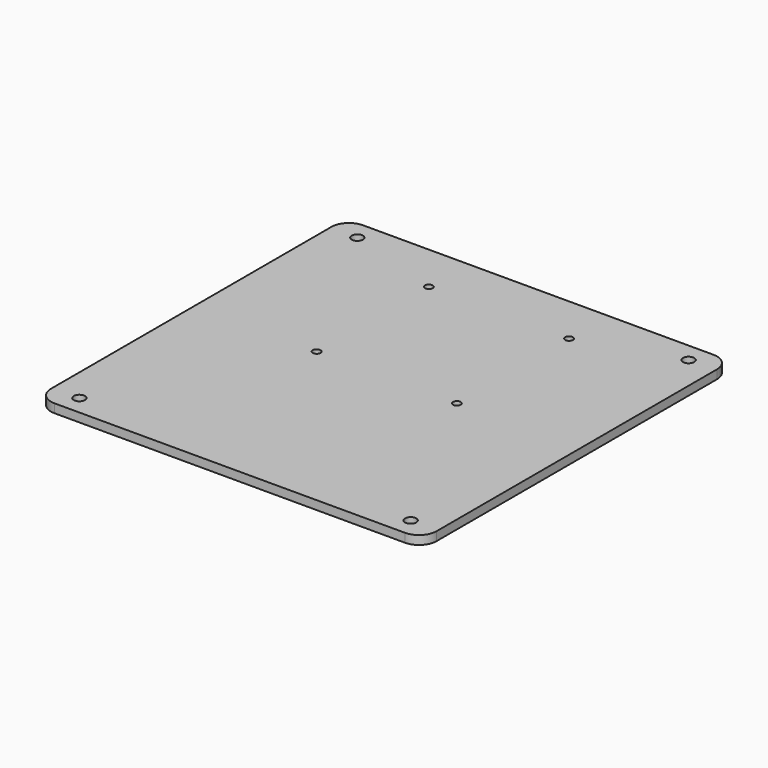
from build123d import *

# Parameters (mm, degrees)
PAD006_DEPTH    = 5
SKETCH040_R     = 3.2
POCKET034_DEPTH = 5
SKETCH041_W     = 163
SKETCH041_H     = 205
PAD007_DEPTH    = 5
SKETCH042_W     = 205
SKETCH042_H     = 176.4
PAD008_DEPTH    = 5
SKETCH043_W     = 149
SKETCH043_H     = 199
POCKET035_DEPTH = 5
SKETCH049_R     = 2.2
POCKET040_DEPTH = 5


with BuildPart() as part:
    # Sketch039 → Pad006 (new body)
    with BuildSketch(Plane.XY):
        with BuildLine():
            Line((-100, 110), (100, 110))
            ThreePointArc((110, 100), (107.071068, 107.071068), (100, 110))
            Line((110, 100), (110, -100))
            ThreePointArc((100, -110), (107.071068, -107.071068), (110, -100))
            Line((100, -110), (-100, -110))
            ThreePointArc((-110, -100), (-107.071068, -107.071068), (-100, -110))
            Line((-110, -100), (-110, 100))
            ThreePointArc((-100, 110), (-107.071068, 107.071068), (-110, 100))
        make_face()
    extrude(amount=PAD006_DEPTH)

    # Sketch040 (on Face10 of Pad006) → Pocket034 (cut)
    with BuildSketch(Plane.XY.offset(5)):
        with Locations((-94.5, 99.1)):
            Circle(SKETCH040_R)
        with Locations((94.5, 99.1)):
            Circle(SKETCH040_R)
        with Locations((94.5, -99.1)):
            Circle(SKETCH040_R)
        with Locations((-94.5, -99.1)):
            Circle(SKETCH040_R)
    extrude(amount=-POCKET034_DEPTH, mode=Mode.SUBTRACT)

    # Sketch041 (on Face4 of Pocket034) → Pad007 (join)
    with BuildSketch(Plane(origin=(0, 0, 0), x_dir=(1, 0, 0), z_dir=(0, 0, -1))):
        Rectangle(SKETCH041_W, SKETCH041_H)
    extrude(amount=PAD007_DEPTH)

    # Sketch042 (on Face4 of Pocket034) → Pad008 (join)
    with BuildSketch(Plane(origin=(0, 0, 0), x_dir=(1, 0, 0), z_dir=(0, 0, -1))):
        Rectangle(SKETCH042_W, SKETCH042_H)
    extrude(amount=PAD008_DEPTH)

    # Sketch043 (on Face31 of Pad008) → Pocket035 (cut)
    with BuildSketch(Plane(origin=(0, 0, -5), x_dir=(1, 0, 0), z_dir=(0, 0, -1))):
        Rectangle(SKETCH043_W, SKETCH043_H)
    extrude(amount=-POCKET035_DEPTH, mode=Mode.SUBTRACT)

    # Sketch049 → Pocket040 (cut)
    with BuildSketch(Plane.XY):
        with Locations((-40, 81.965103)):
            Circle(SKETCH049_R)
        with Locations((40, 81.965103)):
            Circle(SKETCH049_R)
        with Locations((40, 1.965103)):
            Circle(SKETCH049_R)
        with Locations((-40, 1.965103)):
            Circle(SKETCH049_R)
    extrude(amount=POCKET040_DEPTH, mode=Mode.SUBTRACT)


with BuildPart() as part_1:
    # Body004 placement: moved
    add(part.part.moved(Location((0, 0, 229.4))))


solid = part_1.part
